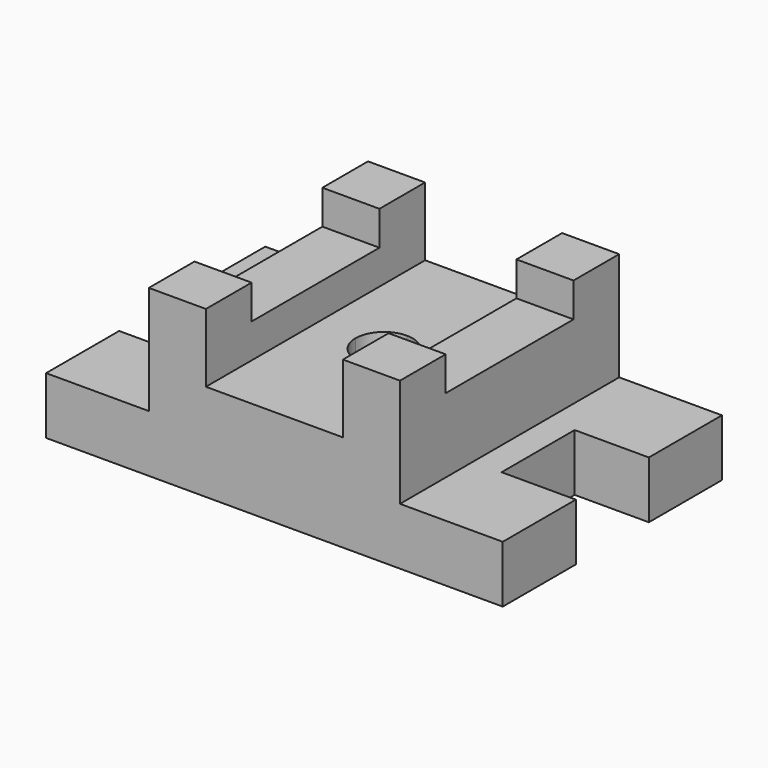
from build123d import *

# Parameters (mm, degrees)
F1_DEPTH = 31.75
F2_DEPTH = 31.75
F0_W     = 31.75
F0_H     = 31.75
F3_DEPTH = 92.075
F4_DEPTH = 92.075
F5_DEPTH = 53.975
F0_H_2   = 44.45
F6_DEPTH = 73.025


with BuildPart() as f1:
    # F0 (on Top) → F1 (new body)
    with BuildSketch(Plane.XY):
        Polygon((69.85, 44.45), (69.85, 0), (85.725, 0), (85.725, 25.4), (127, 25.4), (127, 76.2), (76.8811181188, 76.2), (69.85, 76.2), align=None)
        Polygon((69.85, -76.2), (127, -76.2), (127, -25.4), (85.725, -25.4), (85.725, 0), (69.85, 0), (69.85, -44.45), align=None)
    extrude(amount=F1_DEPTH)

    # F0 (on Top) → F3 (join)
    with BuildSketch(Plane.XY):
        with Locations((53.975, -60.325)):
            Rectangle(F0_W, F0_H)
    extrude(amount=F3_DEPTH)

    # F0 (on Top) → F4, piece 2 (join)
    with BuildSketch(Plane.XY):
        with Locations((53.975, 60.325)):
            Rectangle(F0_W, F0_H)
    extrude(amount=F4_DEPTH)



with BuildPart() as f2:
    # F0 (on Top) → F2 (new body)
    with BuildSketch(Plane.XY):
        Polygon((-85.725, 0), (-69.85, 0), (-69.85, 44.45), (-69.85, 76.2), (-127, 76.2), (-127, 25.4), (-85.725, 25.4), align=None)
        Polygon((-127, -76.2), (-69.85, -76.2), (-69.85, -44.45), (-69.85, 0), (-85.725, 0), (-85.725, -25.4), (-127, -25.4), align=None)
    extrude(amount=F2_DEPTH)

    # F0 (on Top) → F4 (join)
    with BuildSketch(Plane.XY):
        with Locations((-53.975, 60.325)):
            Rectangle(F0_W, F0_H)
        with Locations((-53.975, -60.325)):
            Rectangle(F0_W, F0_H)
    extrude(amount=F4_DEPTH)


with BuildPart() as f1_1:
    add(f1.part)

    add(f2.part)  # F5 merges F2
    # F0 (on Top) → F5 (join)
    with BuildSketch(Plane.XY):
        with BuildLine():
            Line((15.875, 0), (38.1, 0))
            Line((38.1, 0), (38.1, 44.45))
            Line((38.1, 44.45), (38.1, 76.2))
            Line((38.1, 76.2), (-38.1, 76.2))
            Line((-38.1, 76.2), (-38.1, 44.45))
            Line((-38.1, 44.45), (-38.1, 0))
            Line((-38.1, 0), (-15.875, 0))
            ThreePointArc((-15.875, 0), (-11.2253201513, 11.2253201513), (0, 15.875))
            ThreePointArc((0, 15.875), (11.2253201513, 11.2253201513), (15.875, 0))
        make_face()
        with BuildLine():
            Line((-38.1, -76.2), (0, -76.2))
            Line((0, -76.2), (0, -15.875))
            ThreePointArc((0, -15.875), (-11.2253201513, -11.2253201513), (-15.875, 0))
            Line((-15.875, 0), (-38.1, 0))
            Line((-38.1, 0), (-38.1, -44.45))
            Line((-38.1, -44.45), (-38.1, -76.2))
        make_face()
        with BuildLine():
            Line((0, -76.2), (38.1, -76.2))
            Line((38.1, -76.2), (38.1, -44.45))
            Line((38.1, -44.45), (38.1, 0))
            Line((38.1, 0), (15.875, 0))
            ThreePointArc((15.875, 0), (11.2253201513, -11.2253201513), (0, -15.875))
            Line((0, -15.875), (0, -76.2))
        make_face()
    extrude(amount=F5_DEPTH)

    # F0 (on Top) → F6 (join)
    with BuildSketch(Plane.XY):
        with Locations((-53.975, -22.225)):
            Rectangle(F0_W, F0_H_2)
        with Locations((-53.975, 22.225)):
            Rectangle(F0_W, F0_H_2)
        with Locations((53.975, 22.225)):
            Rectangle(F0_W, F0_H_2)
        with Locations((53.975, -22.225)):
            Rectangle(F0_W, F0_H_2)
    extrude(amount=F6_DEPTH)


solid = f1_1.part
